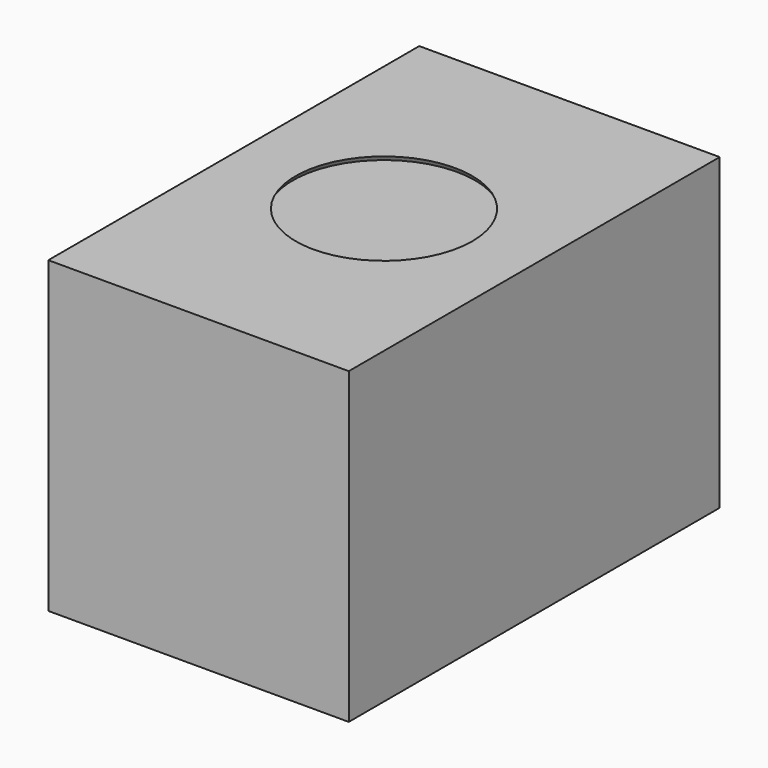
from build123d import *

# Parameters (mm, degrees)
F0_W     = 32.9184010625
F0_H     = 33.8327996433
F1_DEPTH = 25.4
F2_R     = 9.6783003352
F3_DEPTH = 0.508
F3_TAPER = -30


with BuildPart() as f1:
    # F0 (on Front) → F1 (new body, symmetric)
    with BuildSketch(Plane.XZ):
        Rectangle(F0_W, F0_H)
    extrude(amount=F1_DEPTH, both=True)

    # F2 (on face) → F3 (cut)
    with BuildSketch(Plane.XY.offset(16.9163998216)):
        Circle(F2_R)
    extrude(amount=-F3_DEPTH, taper=F3_TAPER, mode=Mode.SUBTRACT)


solid = f1.part
